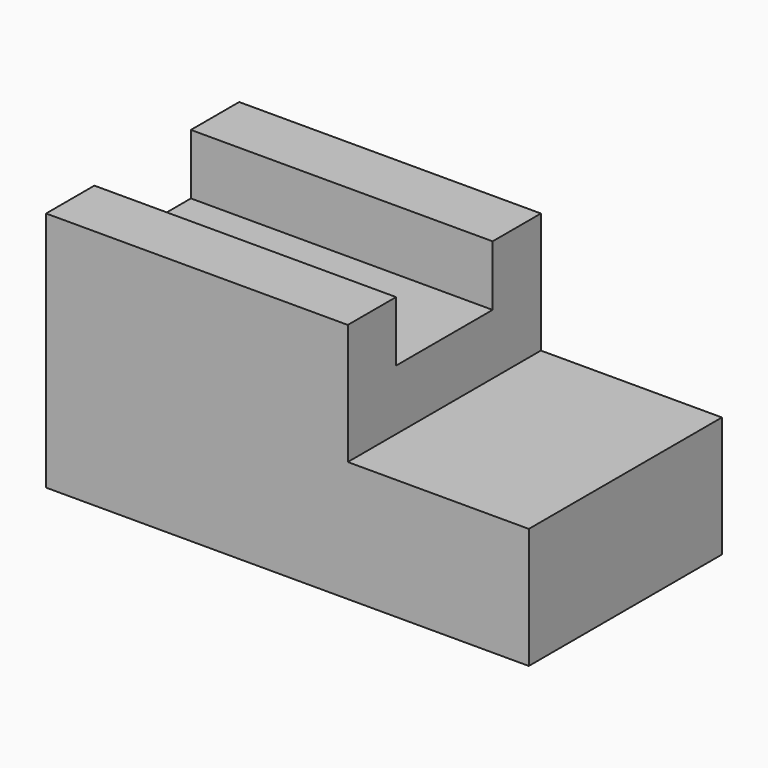
from build123d import *

# Parameters (mm, degrees)
F1_DEPTH = 101.6
F2_W     = 127
F2_H     = 50.8
F3_DEPTH = 25.4


with BuildPart() as f1:
    # F0 (on Front) → F1 (new body)
    with BuildSketch(Plane.XZ):
        Polygon((-151.60625, 32.441046), (-151.60625, -69.158954), (51.59375, -69.158954), (51.59375, -18.358954), (-24.60625, -18.358954), (-24.60625, 32.441046), align=None)
    extrude(amount=F1_DEPTH)

    # F2 (on face) → F3 (cut)
    with BuildSketch(Plane.XY.offset(32.441046)):
        with Locations((-88.10625, -50.8)):
            Rectangle(F2_W, F2_H)
    extrude(amount=-F3_DEPTH, mode=Mode.SUBTRACT)


solid = f1.part
